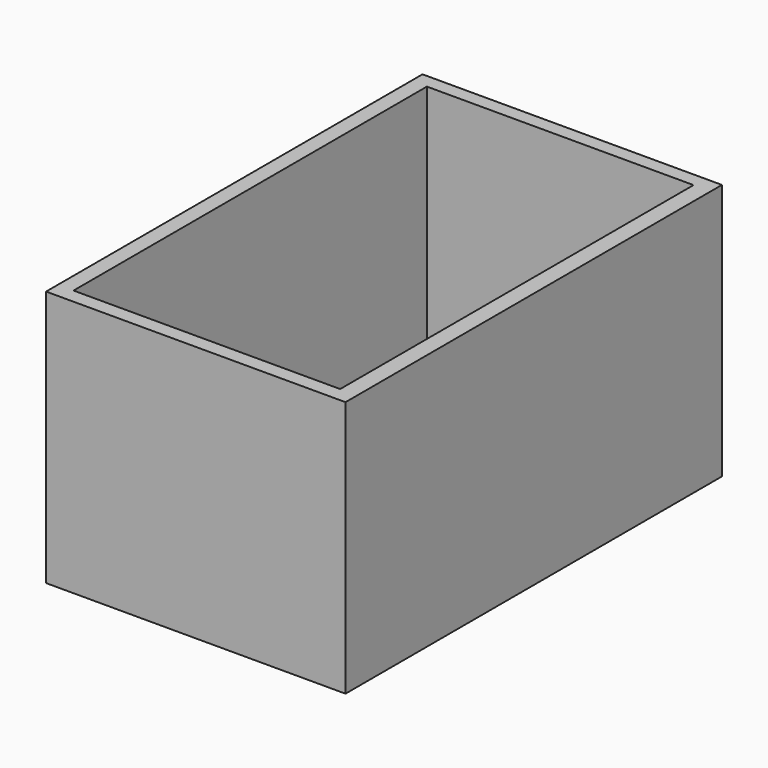
from build123d import *

# Parameters (mm, degrees)
F1_DEPTH = 7.62
F2_DEPTH = 76.2


with BuildPart() as f1:
    # F0 (on Top) → F1 (new body)
    with BuildSketch(Plane.XY):
        Polygon((39.778121, 66.324189), (0.416027, 66.324189), (-39.384276, 66.324189), (-39.384276, -64.825445), (39.778121, -64.825445), align=None)
    extrude(amount=F1_DEPTH)


with BuildPart() as f2:
    # F0 (on Top) → F2 (new body)
    with BuildSketch(Plane.XY):
        Polygon((44.866027, 70.503757), (0, 70.503757), (-44.033973, 70.503757), (-44.033973, 0), (-44.033973, -69.196243), (0, -69.196243), (44.866027, -69.196243), (44.866027, 0), align=None)
        Polygon((-39.384276, 66.324189), (0.416027, 66.324189), (39.778121, 66.324189), (39.778121, -64.825445), (-39.384276, -64.825445), align=None, mode=Mode.SUBTRACT)
    extrude(amount=F2_DEPTH)


solid = Compound([f1.part, f2.part])
